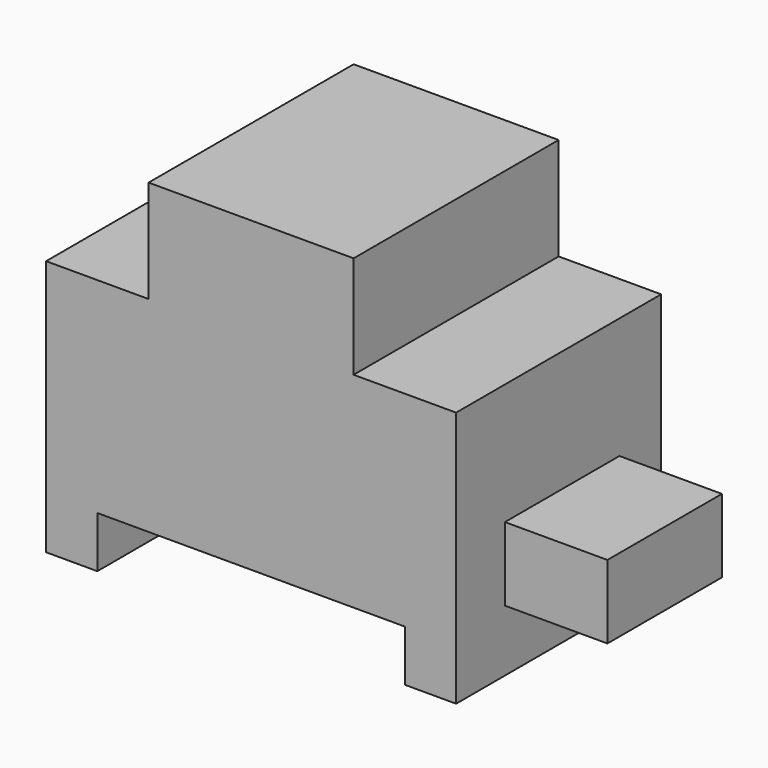
from build123d import *

# Parameters (mm, degrees)
F0_W     = 101.6
F0_H     = 88.9
F1_DEPTH = 63.5
F2_W     = 25.4
F2_H     = 25.4
F3_DEPTH = 63.5
F4_W     = 25.4
F4_H     = 25.4
F5_DEPTH = 63.5
F6_W     = 76.2
F6_H     = 12.7
F7_DEPTH = 63.5
F8_W     = 35.461226
F8_H     = 18.227942
F9_DEPTH = 25.4


with BuildPart() as f1:
    # F0 (on Front) → F1 (new body)
    with BuildSketch(Plane.XZ):
        with Locations((-23.928717, 52.601962)):
            Rectangle(F0_W, F0_H)
    extrude(amount=F1_DEPTH)

    # F2 (on face) → F3 (cut)
    with BuildSketch(Plane.XZ.offset(63.5)):
        with Locations((-62.028717, 84.351962)):
            Rectangle(F2_W, F2_H)
    extrude(amount=-F3_DEPTH, mode=Mode.SUBTRACT)

    # F4 (on face) → F5 (cut)
    with BuildSketch(Plane.XZ.offset(63.5)):
        with Locations((14.171283, 84.351962)):
            Rectangle(F4_W, F4_H)
    extrude(amount=-F5_DEPTH, mode=Mode.SUBTRACT)

    # F6 (on face) → F7 (cut)
    with BuildSketch(Plane.XZ.offset(63.5)):
        with Locations((-23.928717, 14.501962)):
            Rectangle(F6_W, F6_H)
    extrude(amount=-F7_DEPTH, mode=Mode.SUBTRACT)

    # F8 (on face) → F9 (join)
    with BuildSketch(Plane.YZ.offset(26.871283)):
        with Locations((-30.654847, 32.522842)):
            Rectangle(F8_W, F8_H)
    extrude(amount=F9_DEPTH)


solid = f1.part
